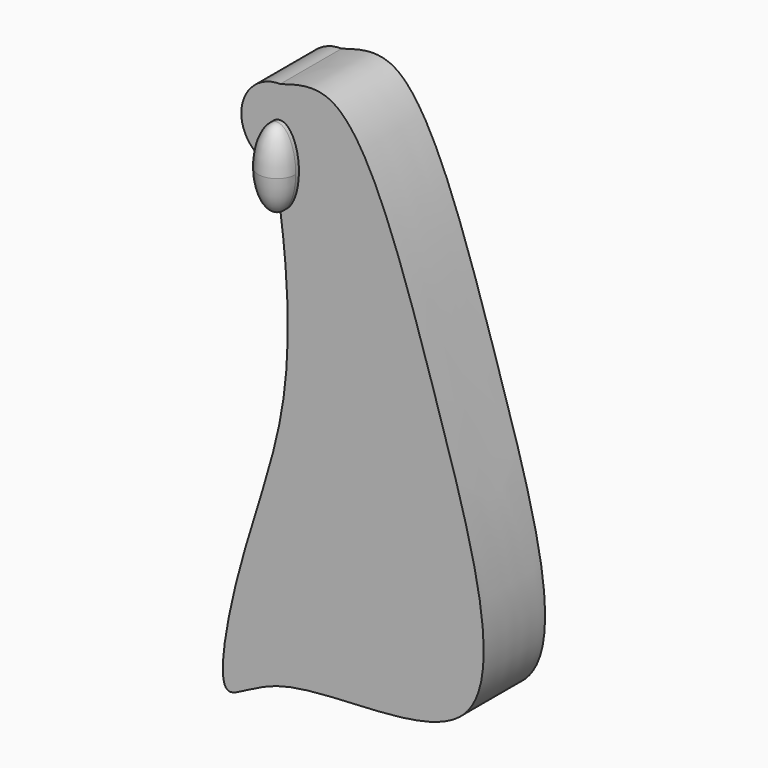
from build123d import *

# Parameters (mm, degrees)
F1_DEPTH = 12.7
F2_DEPTH = 12.065


with BuildPart() as f1:
    # F0 (on Front) → F1 (new body)
    with BuildSketch(Plane.XZ):
        with BuildLine():
            add(Edge.make_bspline(
                [(-15.8388217014, 41.2063295306), (-15.7647452629, 35.2107119264), (-12.8973350741, 35.2107119264)],
                knots=[4.7382257724, 4.7382257724, 4.7382257724, 6.2831853072, 6.2831853072, 6.2831853072], degree=2, weights=[1, 0.7161822106, 1]))
            add(Edge.make_bspline(
                [(-12.8973350741, 35.2107119264), (-5.6617485659, 35.2107119264), (-10.8437469064, 45.7731534439), (-16.0257452469, 56.3355949615), (-15.8388217014, 41.2063295306)],
                knots=[0, 0, 0, 2.3691128862, 2.3691128862, 4.7382257724, 4.7382257724, 4.7382257724], degree=2, weights=[1, 0.37670797, 1, 0.37670797, 1]))
        make_face()
    extrude(amount=F1_DEPTH)

    # F0 (on Front) → F2 (join)
    with BuildSketch(Plane.XZ):
        with BuildLine():
            add(Edge.make_bspline(
                [(-12.8973350741, 35.2107119264), (-5.6617485659, 35.2107119264), (-10.8437469064, 45.7731534439), (-16.0257452469, 56.3355949615), (-15.8388217014, 41.2063295306)],
                knots=[0, 0, 0, 2.3691128862, 2.3691128862, 4.7382257724, 4.7382257724, 4.7382257724], degree=2, weights=[1, 0.37670797, 1, 0.37670797, 1]))
            add(Edge.make_bspline(
                [(-12.8973350741, 52.5139376537), (-10.0992859937, 53.3775717904), (-0.7817228388, 56.1697810147), (11.8849671631, 15.9810097625), (27.3429860431, -33.7438857845), (-12.6690703151, -27.1119501499), (-23.7740794605, -38.5836917436), (-19.6900101144, -14.7747019436), (-10.7820131275, 7.2899386806), (-11.5702341875, 25.4925306039), (-12.8973350741, 35.2107119264)],
                knots=[0, 0, 0, 0, 0.0755883908, 0.2406589313, 0.4073729073, 0.5477844011, 0.6254660213, 0.7306547381, 0.8636866547, 1, 1, 1, 1], degree=3))
            ThreePointArc((-12.8973350741, 52.5139376537), (-18.8196519582, 48.018136592), (-15.8388217014, 41.2063295306))
        make_face()
    extrude(amount=F2_DEPTH)

    # F3 (on face) → F4 (revolve)
    with BuildSketch(Plane.XZ.offset(12.7)):
        with BuildLine():
            Line((-12.8973350741, 35.2107119264), (-12.8973350741, 47.5199427904))
            add(Edge.make_bspline(
                [(-12.8973350741, 47.5199427904), (-15.9168270071, 47.5199427904), (-15.8388217014, 41.2063295306)],
                knots=[3.1857216562, 3.1857216562, 3.1857216562, 4.7382257724, 4.7382257724, 4.7382257724], degree=2, weights=[0.7184232063, 0.5915503023, 1]))
            add(Edge.make_bspline(
                [(-15.8388217014, 41.2063295306), (-15.7647452629, 35.2107119264), (-12.8973350741, 35.2107119264)],
                knots=[4.7382257724, 4.7382257724, 4.7382257724, 6.2831853072, 6.2831853072, 6.2831853072], degree=2, weights=[1, 0.7161822106, 1]))
        make_face()
    revolve(axis=Axis((-12.8973350741, -12.7, 41.3653273584), (0, 0, -1)))


solid = f1.part
